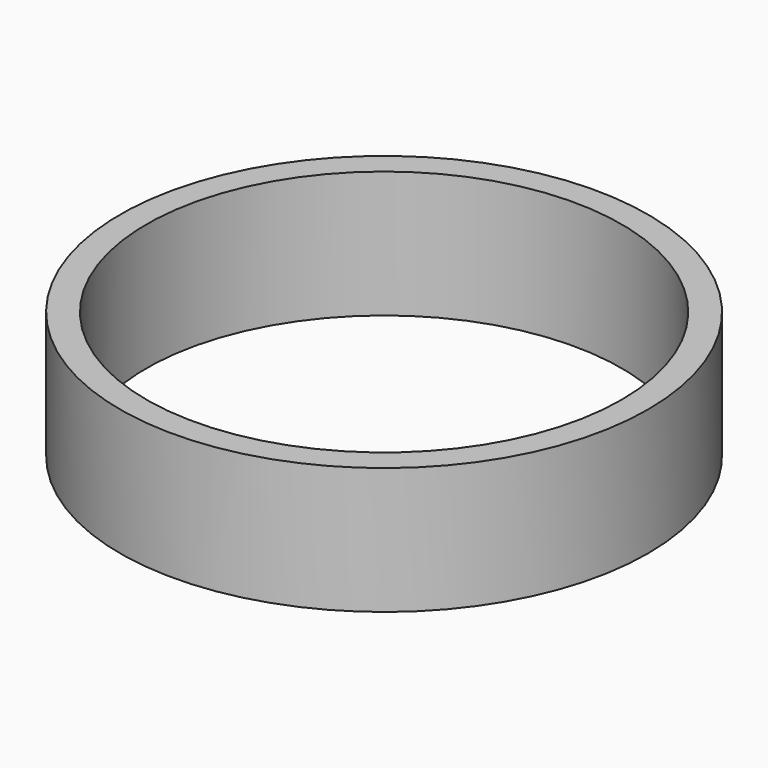
from build123d import *

# Parameters (mm, degrees)
SKETCH_R   = 50
SKETCH_R_2 = 45
PAD_DEPTH  = 24


with BuildPart() as part:
    # Sketch → Pad (new body)
    with BuildSketch(Plane.XY):
        Circle(SKETCH_R)
        Circle(SKETCH_R_2, mode=Mode.SUBTRACT)
    extrude(amount=PAD_DEPTH)


solid = part.part
